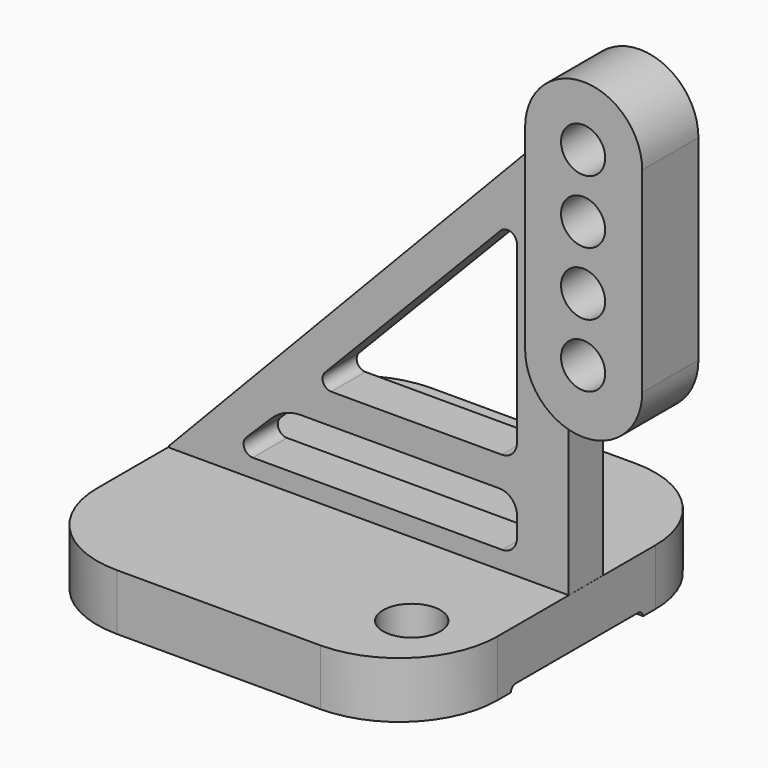
from build123d import *

# Parameters (mm, degrees)
PAD_DEPTH       = 8
POCKET_DEPTH    = 57.0073705793
SKETCH002_R     = 4.0836886852
POCKET001_DEPTH = 8.001
SKETCH003_W     = 56.899337
SKETCH003_H     = 6.084113
PAD001_DEPTH    = 60
POCKET002_DEPTH = 29.4027415793
POCKET003_DEPTH = 29.4027415793
PAD002_DEPTH    = 5
SKETCH007_R     = 3.14062
POCKET004_DEPTH = 31.4027415793


with BuildPart() as part:
    # Sketch → Pad (new body)
    with BuildSketch(Plane.XY):
        with BuildLine():
            ThreePointArc((-15.0477684207, 26.4331275793), (-24.9562751358, 22.3288897151), (-29.060513, 12.420383))
            Line((-29.060513, -15.6050894207), (-29.060513, 12.420383))
            ThreePointArc((-29.060513, -15.6050894207), (-24.9562751358, -25.5135961358), (-15.0477684207, -29.617834))
            Line((13.933113, -29.617834), (-15.0477684207, -29.617834))
            ThreePointArc((13.933113, -29.617834), (23.841619715, -25.5135961358), (27.9458575793, -15.6050894207))
            Line((27.9458575793, 12.420383), (27.9458575793, -15.6050894207))
            ThreePointArc((27.9458575793, 12.420383), (23.8416197151, 22.3288897151), (13.933113, 26.4331275793))
            Line((-15.0477684207, 26.4331275793), (13.933113, 26.4331275793))
        make_face()
    extrude(amount=PAD_DEPTH)

    # Sketch001 (on Face6 of Pad) → Pocket (cut, through all)
    with BuildSketch(Plane.YZ.offset(27.9458575793)):
        with BuildLine():
            ThreePointArc((-12.380569, 0.7961803172), (-13.0279997287, 0.5280057287), (-13.2961743172, -0.119425))
            Line((-13.2961743172, -1.9506356828), (-13.2961743172, -0.119425))
            ThreePointArc((-13.2961743172, -1.9506356828), (-13.0279997287, -2.5980664115), (-12.380569, -2.866241))
            Line((9.355097, -2.866241), (-12.380569, -2.866241))
            ThreePointArc((9.355097, -2.866241), (10.0025277287, -2.5980664115), (10.2707023172, -1.9506356828))
            Line((10.2707023172, -0.119425), (10.2707023172, -1.9506356828))
            ThreePointArc((10.2707023172, -0.119425), (10.0025277287, 0.5280057287), (9.355097, 0.7961803172))
            Line((-12.380569, 0.7961803172), (9.355097, 0.7961803172))
        make_face()
    extrude(amount=-POCKET_DEPTH, mode=Mode.SUBTRACT)

    # Sketch002 (on Face5 of Pocket) → Pocket001 (cut, through all)
    with BuildSketch(Plane.XY.offset(8)):
        with Locations((-18.148907, 18.645535)):
            Circle(SKETCH002_R)
        with Locations((18.148907, -18.645535)):
            Circle(SKETCH002_R)
    extrude(amount=-POCKET001_DEPTH, mode=Mode.SUBTRACT)

    # Sketch003 (on Face5 of Pocket001) → Pad001 (join)
    with BuildSketch(Plane.XY.offset(8)):
        with Locations((-0.5137005, 0.0734425)):
            Rectangle(SKETCH003_W, SKETCH003_H)
    extrude(amount=PAD001_DEPTH)

    # Sketch004 (on Face18 of Pad001) → Pocket002 (cut, through all)
    with BuildSketch(Plane.XZ.offset(2.968614)):
        Polygon((32.25227, 72.310852), (-33.045937, 3.912876), (-33.045937, 72.310852), align=None)
    extrude(amount=-POCKET002_DEPTH, mode=Mode.SUBTRACT)

    # Sketch005 (on Face18 of Pocket002) → Pocket003 (cut, through all)
    with BuildSketch(Plane.XZ.offset(2.968614)):
        with BuildLine():
            Line((20.576633, 49.5814919899), (20.576633, 24.688993))
            ThreePointArc((18.39756, 22.50992), (19.938397295, 23.148155705), (20.576633, 24.688993))
            Line((18.39756, 22.50992), (-5.8443663857, 22.50992))
            ThreePointArc((-6.7417037948, 24.6225852162), (-6.992034537, 23.2693582646), (-5.8443663857, 22.50992))
            Line((-6.7417037948, 24.6225852162), (18.2466667899, 50.5222462275))
            ThreePointArc((20.576633, 49.5814919899), (19.7290007026, 50.837851918), (18.2466667899, 50.5222462275))
        make_face()
        with BuildLine():
            Line((-14.3464422841, 16.4193365685), (-17.9321506281, 12.8610900081))
            ThreePointArc((-17.9321506281, 12.8610900081), (-18.2216862616, 11.4271148765), (-17.0060998632, 10.6131951821))
            Line((-17.0060998632, 10.6131951821), (18.45566, 10.6131951821))
            ThreePointArc((18.45566, 10.6131951821), (19.955414391, 11.234413791), (20.576633, 12.7341681821))
            Line((20.576633, 12.7341681821), (20.576633, 15.643153))
            ThreePointArc((20.576633, 15.643153), (19.8342365583, 17.4354565583), (18.041933, 18.177853))
            Line((18.041933, 18.177853), (-10.0778210188, 18.177853))
            ThreePointArc((-10.0778210188, 18.177853), (-12.3861487439, 17.7210037241), (-14.3464422841, 16.4193365685))
        make_face()
    extrude(amount=-POCKET003_DEPTH, mode=Mode.SUBTRACT)

    # Sketch006 (on Face18 of Pocket003) → Pad002 (join, symmetric)
    with BuildSketch(Plane.XZ.offset(-0.031386)):
        with BuildLine():
            ThreePointArc((39.9948353179, 65.999481), (31.665817, 74.3284993179), (23.3367986821, 65.999481))
            Line((23.3367986821, 65.999481), (23.3367986821, 38.133236))
            ThreePointArc((23.3367986821, 38.133236), (31.665817, 29.8042176821), (39.9948353179, 38.133236))
            Line((39.9948353179, 38.133236), (39.9948353179, 65.999481))
        make_face()
    extrude(amount=PAD002_DEPTH, both=True)

    # Sketch007 (on Face39 of Pad002) → Pocket004 (cut, through all)
    with BuildSketch(Plane.XZ.offset(4.968614)):
        with Locations((31.585516, 65.792679)):
            Circle(SKETCH007_R)
        with Locations((31.585516, 56.792679)):
            Circle(SKETCH007_R)
        with Locations((31.585516, 47.792679)):
            Circle(SKETCH007_R)
        with Locations((31.585516, 38.792679)):
            Circle(SKETCH007_R)
    extrude(amount=-POCKET004_DEPTH, mode=Mode.SUBTRACT)


solid = part.part
